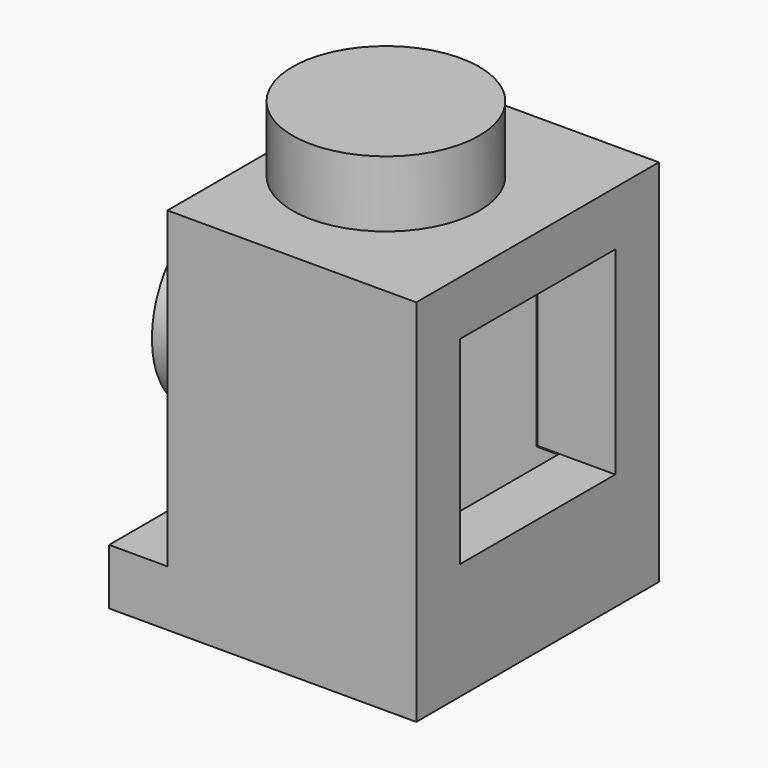
from build123d import *

# Parameters (mm, degrees)
F1_DEPTH  = 7.8
F2_R      = 2.4
F3_DEPTH  = 1.7
F4_W      = 5.02
F4_H      = 4.92
F5_DEPTH  = 1.5
F6_W      = 4.16
F6_H      = 4.92
F7_DEPTH  = 7.9
F8_R      = 2.4
F8_R_2    = 2
F9_DEPTH  = 1.6
F10_DEPTH = 1
F11_W     = 5
F11_H     = 5.1
F12_DEPTH = 2


with BuildPart() as f1:
    # F0 (on Front) → F1 (new body)
    with BuildSketch(Plane.XZ):
        Polygon((0, 1.44), (0, 0), (7.9, 0), (7.9, 9.5), (1.5, 9.5), (1.5, 1.44), align=None)
    extrude(amount=F1_DEPTH)

    # F2 (on face) → F3 (join)
    with BuildSketch(Plane.XY.offset(9.5)):
        with Locations((4, -3.9)):
            Circle(F2_R)
    extrude(amount=F3_DEPTH)

    # F4 (on face) → F5 (cut)
    with BuildSketch(Plane(origin=(0, 0, 0), x_dir=(1, 0, 0), z_dir=(0, 0, -1))):
        with Locations((3.95, 3.9)):
            Rectangle(F4_W, F4_H)
    extrude(amount=-F5_DEPTH, mode=Mode.SUBTRACT)

    # F6 (on face) → F7 (cut)
    with BuildSketch(Plane(origin=(0, 0, 1.5), x_dir=(1, 0, 0), z_dir=(0, 0, -1))):
        with Locations((4.38, 3.9)):
            Rectangle(F6_W, F6_H)
    extrude(amount=-F7_DEPTH, mode=Mode.SUBTRACT)

    # F8 (on face) → F9 (join)
    with BuildSketch(Plane(origin=(1.5, 0, 0), x_dir=(0, -1, 0), z_dir=(-1, 0, 0))):
        with Locations((3.9, 5.47)):
            Circle(F8_R)
        with Locations((3.9, 5.47)):
            Circle(F8_R_2, mode=Mode.SUBTRACT)
    extrude(amount=F9_DEPTH)

    # F8 (on face) → F10 (cut)
    with BuildSketch(Plane(origin=(1.5, 0, 0), x_dir=(0, -1, 0), z_dir=(-1, 0, 0))):
        with Locations((3.9, 5.47)):
            Circle(F8_R_2)
    extrude(amount=-F10_DEPTH, mode=Mode.SUBTRACT)

    # F11 (on face) → F12 (cut)
    with BuildSketch(Plane.YZ.offset(7.9)):
        with Locations((-3.9, 5.55)):
            Rectangle(F11_W, F11_H)
    extrude(amount=-F12_DEPTH, mode=Mode.SUBTRACT)


solid = f1.part
